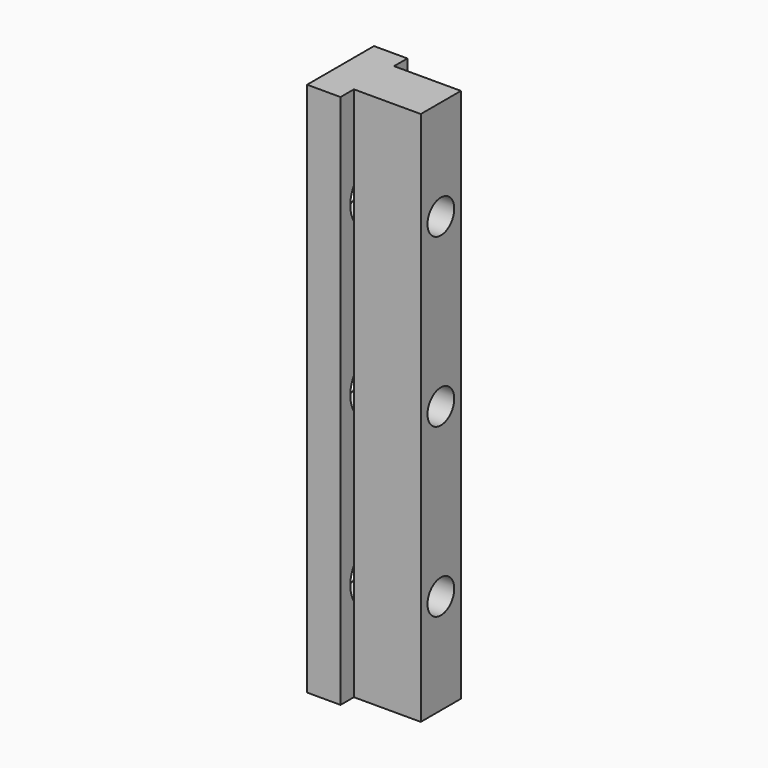
from build123d import *

# Parameters (mm, degrees)
F1_DEPTH = 50.8
F2_R     = 3.175
F3_DEPTH = 19.051
F4_R     = 5.625
F5_DEPTH = 6.4
F6_R     = 2.413
F7_DEPTH = 12.7


with BuildPart() as f1:
    # F0 (on Top) → F1 (new body, symmetric)
    with BuildSketch(Plane.XY):
        Polygon((6.35, 7.9375), (0, 7.9375), (0, -7.9375), (6.35, -7.9375), (6.35, -4.7625), (16.637, -4.7625), (19.05, -4.7625), (19.05, 4.7625), (16.637, 4.7625), (6.35, 4.7625), align=None)
    extrude(amount=F1_DEPTH, both=True)

    # F2 (on face) → F3 (cut, through all)
    with BuildSketch(Plane(origin=(0, 0, 0), x_dir=(0, -1, 0), z_dir=(-1, 0, 0))):
        with Locations((0, 31.75)):
            Circle(F2_R)
        Circle(F2_R)
        with Locations((0, -31.75)):
            Circle(F2_R)
    extrude(amount=-F3_DEPTH, mode=Mode.SUBTRACT)

    # F4 (on face) → F5 (cut)
    with BuildSketch(Plane(origin=(0, 0, 0), x_dir=(0, -1, 0), z_dir=(-1, 0, 0))):
        with Locations((0, 31.75)):
            Circle(F4_R)
        Circle(F4_R)
        with Locations((0, -31.75)):
            Circle(F4_R)
    extrude(amount=-F5_DEPTH, mode=Mode.SUBTRACT)

    # F6 (on face) → F7 (cut)
    with BuildSketch(Plane(origin=(0, 0, -50.8), x_dir=(1, 0, 0), z_dir=(0, 0, -1))):
        with Locations((6.35, 0)):
            Circle(F6_R)
    extrude(amount=-F7_DEPTH, mode=Mode.SUBTRACT)


solid = f1.part
